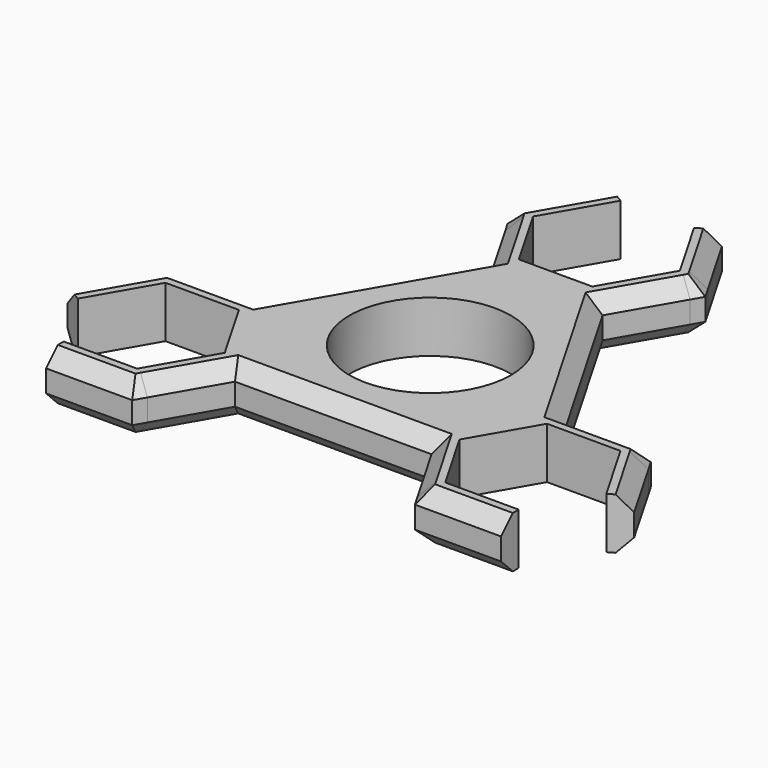
from build123d import *

# Parameters (mm, degrees)
F0_R     = 11
F1_DEPTH = 7
F2_SIZE  = 2


with BuildPart() as f1:
    # F0 (on Top) → F1 (new body)
    with BuildSketch(Plane.XY):
        Polygon((10, 30), (5, 21.339746), (-5, 21.339746), (-10, 30), (-5, 38.660254), (-7.598076, 40.160254), (-12.598076, 31.5), (-13.464102, 30), (-12.598076, 28.5), (-7.598076, 19.839746), (-20.980762, -3.339746), (-30.97884, -3.339746), (-32.712813, -3.339746), (-33.578838, -4.839746), (-38.578838, -13.5), (-35.980762, -15), (-30.980762, -6.339746), (-20.980762, -6.339746), (-15.980762, -15), (-20.980762, -23.660254), (-30.980762, -23.660254), (-30.980762, -26.660254), (-20.980762, -26.660254), (-19.248711, -26.660254), (-18.382686, -25.160254), (-13.382686, -16.5), (13.382686, -16.5), (18.381478, -25.158161), (19.248711, -26.660254), (20.980762, -26.660254), (30.980762, -26.660254), (30.980762, -23.660254), (20.980762, -23.660254), (15.980762, -15), (20.980762, -6.339746), (30.980762, -6.339746), (35.980762, -15), (38.578838, -13.5), (33.578952, -4.839943), (32.712813, -3.339746), (30.977076, -3.339746), (20.980762, -3.339746), (7.598076, 19.839746), (12.593592, 28.492233), (13.464102, 30), (12.598076, 31.5), (7.598076, 40.160254), (5, 38.660254), align=None)
        Circle(F0_R, mode=Mode.SUBTRACT)
    extrude(amount=F1_DEPTH)

    # F2
    f2_edges = [f1.edges().sort_by_distance(p)[0] for p in [
        (35.645826, -8.419873, 7),
        (26.846788, -3.339746, 7),
        (35.645826, -8.419873, 0),
        (26.846788, -3.339746, 0),
        (14.289419, 8.25, 0),
        (14.289419, 8.25, 7),
        (10.531089, 24.919873, 7),
        (10.531089, 24.919873, 0),
        (10.531089, 35.080127, 0),
        (10.531089, 35.080127, 7),
        (-25.114737, -26.660254, 7),
        (-25.114737, -26.660254, 0),
        (-16.315699, -21.580127, 7),
        (-16.315699, -21.580127, 0),
        (0, -16.5, 7),
        (0, -16.5, 0),
        (16.315699, -21.580127, 7),
        (16.315699, -21.580127, 0),
        (25.114737, -26.660254, 0),
        (25.114737, -26.660254, 7),
        (-10.531089, 35.080127, 7),
        (-10.531089, 35.080127, 0),
        (-10.531089, 24.919873, 7),
        (-10.531089, 24.919873, 0),
        (-14.289419, 8.25, 7),
        (-14.289419, 8.25, 0),
        (-26.846788, -3.339746, 7),
        (-26.846788, -3.339746, 0),
        (-35.645826, -8.419873, 0),
        (-35.645826, -8.419873, 7),
    ]]
    chamfer(f2_edges, length=F2_SIZE)


solid = f1.part
